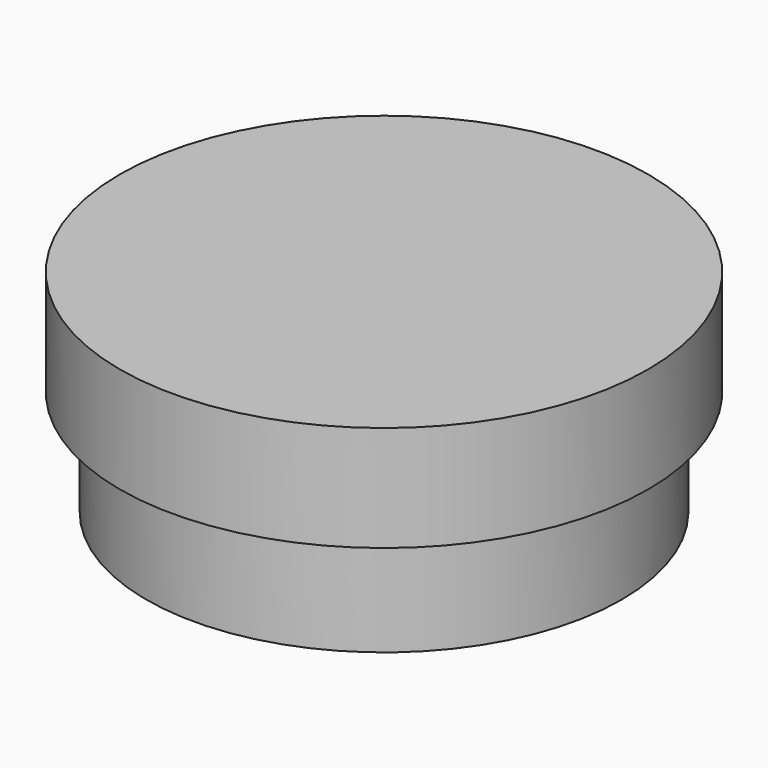
from build123d import *

# Parameters (mm, degrees)
SKETCH_R      = 25
PAD_DEPTH     = 10
SKETCH001_R   = 22.5
SKETCH001_R_2 = 20
PAD001_DEPTH  = 10
SKETCH002_R   = 20
POCKET_DEPTH  = 5


with BuildPart() as part:
    # Sketch → Pad (new body)
    with BuildSketch(Plane.XY):
        Circle(SKETCH_R)
    extrude(amount=PAD_DEPTH)

    # Sketch001 (on Face2 of Pad) → Pad001 (join)
    with BuildSketch(Plane(origin=(0, 0, 0), x_dir=(1, 0, 0), z_dir=(0, 0, -1))):
        Circle(SKETCH001_R)
        Circle(SKETCH001_R_2, mode=Mode.SUBTRACT)
    extrude(amount=PAD001_DEPTH)

    # Sketch002 (on Face7 of Pad001) → Pocket (cut)
    with BuildSketch(Plane(origin=(0, 0, 0), x_dir=(1, 0, 0), z_dir=(0, 0, -1))):
        Circle(SKETCH002_R)
    extrude(amount=-POCKET_DEPTH, mode=Mode.SUBTRACT)


solid = part.part
